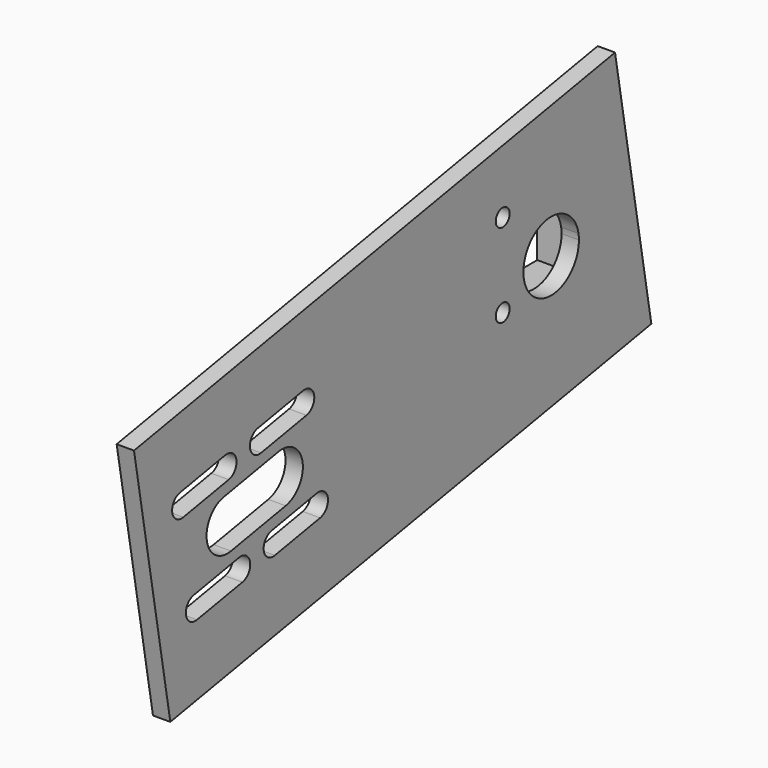
from build123d import *

# Parameters (mm, degrees)
F1_DEPTH = 3.175
F3_DEPTH = 6.35
F5_DEPTH = 6.35
F6_R     = 0.79375
F7_DEPTH = 9.526
F8_R     = 1.5875
F9_DEPTH = 3.176


with BuildPart() as f1:
    # F0 (on Right) → F1 (new body)
    with BuildSketch(Plane.YZ):
        Polygon((22.9110222486, -20.2302862433), (18.7605876949, 3.3079977846), (14.6101531412, 26.8462818124), (-95.3894260431, 7.4503881356), (-87.0885569358, -39.6261799201), align=None)
        with BuildLine():
            ThreePointArc((-80.9892019725, -25.6547811042), (-83.5050207172, -23.8931858544), (-81.7434254674, -21.3773671097))
            Line((-81.7434254674, -21.3773671097), (-71.3625669429, -19.546941669))
            ThreePointArc((-71.3625669429, -19.546941669), (-68.8467481982, -21.3085369187), (-70.608343448, -23.8243556634))
            Line((-70.608343448, -23.8243556634), (-80.9892019725, -25.6547811042))
        make_face(mode=Mode.SUBTRACT)
        with BuildLine():
            ThreePointArc((-62.3617270854, -6.1600858096), (-56.8445807155, -10.0232332872), (-60.7077281931, -15.5403796571))
            Line((-60.7077281931, -15.5403796571), (-73.2147866563, -17.7457115134))
            ThreePointArc((-73.2147866563, -17.7457115134), (-78.7319330262, -13.8825640358), (-74.8687855486, -8.365417666))
            Line((-74.8687855486, -8.365417666), (-62.3617270854, -6.1600858096))
        make_face(mode=Mode.SUBTRACT)
        with BuildLine():
            ThreePointArc((-63.2041648378, -22.5187992044), (-65.7199835824, -20.7572039546), (-63.9583883327, -18.24138521))
            Line((-63.9583883327, -18.24138521), (-53.5775298082, -16.4109597692))
            ThreePointArc((-53.5775298082, -16.4109597692), (-51.0617110635, -18.172555019), (-52.8233063133, -20.6883737636))
            Line((-52.8233063133, -20.6883737636), (-63.2041648378, -22.5187992044))
        make_face(mode=Mode.SUBTRACT)
        with BuildLine():
            ThreePointArc((-74.4985488427, -1.7619045342), (-71.982730098, -3.523499784), (-73.7443253478, -6.0393185286))
            Line((-73.7443253478, -6.0393185286), (-84.1251838723, -7.8697439694))
            ThreePointArc((-84.1251838723, -7.8697439694), (-86.6410026169, -6.1081487197), (-84.8794073672, -3.592329975))
            Line((-84.8794073672, -3.592329975), (-74.4985488427, -1.7619045342))
        make_face(mode=Mode.SUBTRACT)
        with BuildLine():
            ThreePointArc((-68.8559654822, -2.9721668199), (-68.4962109796, -1.3494191256), (-67.0943702324, -0.4563480752))
            Line((-67.0943702324, -0.4563480752), (-56.7135117079, 1.3740773655))
            ThreePointArc((-56.7135117079, 1.3740773655), (-54.1976929633, -0.3875178842), (-55.959288213, -2.9033366289))
            Line((-55.959288213, -2.9033366289), (-66.3401467375, -4.7337620697))
            ThreePointArc((-66.3401467375, -4.7337620697), (-67.9628944318, -4.374007567), (-68.8559654822, -2.9721668199))
        make_face(mode=Mode.SUBTRACT)
        with BuildLine():
            ThreePointArc((6.2535292316, 1.1026659282), (6.3258363329, 0.5534389664), (6.35, 0))
            ThreePointArc((6.35, 0), (-6.3258363329, -0.5534389664), (6.2535292316, 1.1026659282))
        make_face(mode=Mode.SUBTRACT)
        Polygon((22.9110222486, -20.2302862433), (18.7605876949, 3.3079977846), (14.6101531412, 26.8462818124), (-95.3894260431, 7.4503881356), (-87.0885569358, -39.6261799201), align=None)
        with BuildLine():
            ThreePointArc((-80.9892019725, -25.6547811042), (-83.5050207172, -23.8931858544), (-81.7434254674, -21.3773671097))
            Line((-81.7434254674, -21.3773671097), (-71.3625669429, -19.546941669))
            ThreePointArc((-71.3625669429, -19.546941669), (-68.8467481982, -21.3085369187), (-70.608343448, -23.8243556634))
            Line((-70.608343448, -23.8243556634), (-80.9892019725, -25.6547811042))
        make_face(mode=Mode.SUBTRACT)
        with BuildLine():
            ThreePointArc((-62.3617270854, -6.1600858096), (-56.8445807155, -10.0232332872), (-60.7077281931, -15.5403796571))
            Line((-60.7077281931, -15.5403796571), (-73.2147866563, -17.7457115134))
            ThreePointArc((-73.2147866563, -17.7457115134), (-78.7319330262, -13.8825640358), (-74.8687855486, -8.365417666))
            Line((-74.8687855486, -8.365417666), (-62.3617270854, -6.1600858096))
        make_face(mode=Mode.SUBTRACT)
        with BuildLine():
            ThreePointArc((-63.2041648378, -22.5187992044), (-65.7199835824, -20.7572039546), (-63.9583883327, -18.24138521))
            Line((-63.9583883327, -18.24138521), (-53.5775298082, -16.4109597692))
            ThreePointArc((-53.5775298082, -16.4109597692), (-51.0617110635, -18.172555019), (-52.8233063133, -20.6883737636))
            Line((-52.8233063133, -20.6883737636), (-63.2041648378, -22.5187992044))
        make_face(mode=Mode.SUBTRACT)
        with BuildLine():
            ThreePointArc((-74.4985488427, -1.7619045342), (-71.982730098, -3.523499784), (-73.7443253478, -6.0393185286))
            Line((-73.7443253478, -6.0393185286), (-84.1251838723, -7.8697439694))
            ThreePointArc((-84.1251838723, -7.8697439694), (-86.6410026169, -6.1081487197), (-84.8794073672, -3.592329975))
            Line((-84.8794073672, -3.592329975), (-74.4985488427, -1.7619045342))
        make_face(mode=Mode.SUBTRACT)
        with BuildLine():
            ThreePointArc((-68.8559654822, -2.9721668199), (-68.4962109796, -1.3494191256), (-67.0943702324, -0.4563480752))
            Line((-67.0943702324, -0.4563480752), (-56.7135117079, 1.3740773655))
            ThreePointArc((-56.7135117079, 1.3740773655), (-54.1976929633, -0.3875178842), (-55.959288213, -2.9033366289))
            Line((-55.959288213, -2.9033366289), (-66.3401467375, -4.7337620697))
            ThreePointArc((-66.3401467375, -4.7337620697), (-67.9628944318, -4.374007567), (-68.8559654822, -2.9721668199))
        make_face(mode=Mode.SUBTRACT)
        with BuildLine():
            ThreePointArc((6.2535292316, 1.1026659282), (6.3258363329, 0.5534389664), (6.35, 0))
            ThreePointArc((6.35, 0), (-6.3258363329, -0.5534389664), (6.2535292316, 1.1026659282))
        make_face(mode=Mode.SUBTRACT)
    extrude(amount=F1_DEPTH)


with BuildPart() as f3:
    # F2 (on face) → F3 (new body)
    with BuildSketch(Plane(origin=(0, 0, 0), x_dir=(0, -1, 0), z_dir=(-1, 0, 0))):
        Polygon((8.3188572899, 7.9650981352), (8.3188572899, -13.2820438594), (13.8374944884, -13.2820438594), (13.8374944884, 13.4823722765), (-8.72339122, 13.4823722765), (-8.72339122, 7.9650981352), align=None)
    extrude(amount=F3_DEPTH)


with BuildPart() as f5:
    # F4 (on face) → F5 (new body, through all)
    with BuildSketch(Plane(origin=(0, 0, 0), x_dir=(0, -1, 0), z_dir=(-1, 0, 0))):
        Polygon((-8.72339122, -7.2899092047), (-8.72339122, 13.4823722765), (-13.5532086715, 13.4823722765), (-13.5532086715, -13.2820438594), (8.3188572899, -13.2820438594), (8.3188572899, -7.2899092047), align=None)
    extrude(amount=F5_DEPTH)


with BuildPart() as f7_tool:
    # F6 (on face) → F7 (new body, through all)
    with BuildSketch(Plane(origin=(-6.35, 0, 0), x_dir=(0, -1, 0), z_dir=(-1, 0, 0))):
        with Locations((11.0781758891, 10.7237352058)):
            Circle(F6_R)
        with Locations((11.0781758891, -4.6052122489)):
            Circle(F6_R)
    extrude(amount=-F7_DEPTH)


with BuildPart() as f1_1:
    add(f1.part)

    # F7: cut by f7_tool
    add(f7_tool.part, mode=Mode.SUBTRACT)

    # F8 (on face) → F9 (cut, through all)
    with BuildSketch(Plane(origin=(0, 0, 0), x_dir=(0, -1, 0), z_dir=(-1, 0, 0))):
        with Locations((11.0781758891, 10.7237352058)):
            Circle(F8_R)
        with Locations((11.0781758891, -4.6052122489)):
            Circle(F8_R)
    extrude(amount=-F9_DEPTH, mode=Mode.SUBTRACT)


with BuildPart() as f3_1:
    add(f3.part)

    # F7: cut by f7_tool
    add(f7_tool.part, mode=Mode.SUBTRACT)


solid = Compound([f5.part, f1_1.part, f3_1.part])
